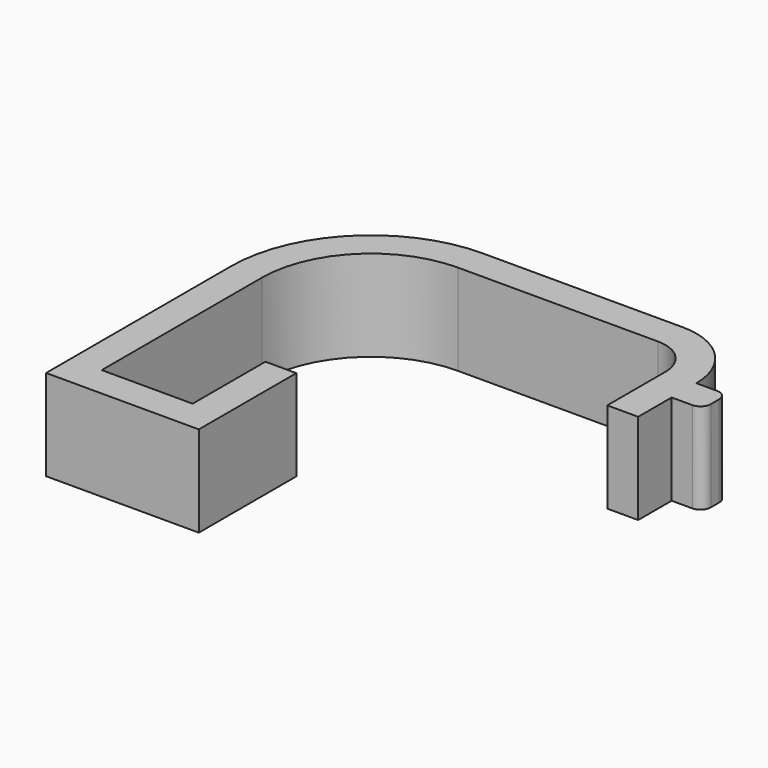
from build123d import *

# Parameters (mm, degrees)
F1_DEPTH = 5


with BuildPart() as f1:
    # F0 (on Top) → F1 (new body)
    with BuildSketch(Plane.XY):
        with BuildLine():
            Line((5, 0), (0, 0))
            Line((0, 0), (0, 11))
            ThreePointArc((0, 11), (1.757359, 15.242641), (6, 17))
            Line((6, 17), (17, 17))
            ThreePointArc((17, 17), (18.414214, 16.414214), (19, 15))
            Line((19, 15), (19, 11))
            Line((19, 11), (20.7, 11))
            Line((20.7, 11), (20.7, 13.3))
            Line((20.7, 13.3), (21.833333, 13.3))
            ThreePointArc((21.833333, 13.3), (22.234027, 13.465973), (22.4, 13.866667))
            Line((22.4, 13.866667), (22.4, 14.433333))
            ThreePointArc((22.4, 14.433333), (22.234027, 14.834027), (21.833333, 15))
            Line((21.833333, 15), (20.7, 15))
            ThreePointArc((20.7, 15), (19.616295, 17.616295), (17, 18.7))
            Line((17, 18.7), (6, 18.7))
            ThreePointArc((6, 18.7), (0.555278, 16.444722), (-1.7, 11))
            Line((-1.7, 11), (-1.7, -1.7))
            Line((-1.7, -1.7), (6.7, -1.7))
            Line((6.7, -1.7), (6.7, 5))
            Line((6.7, 5), (5, 5))
            Line((5, 5), (5, 0))
        make_face()
    extrude(amount=F1_DEPTH)


solid = f1.part
